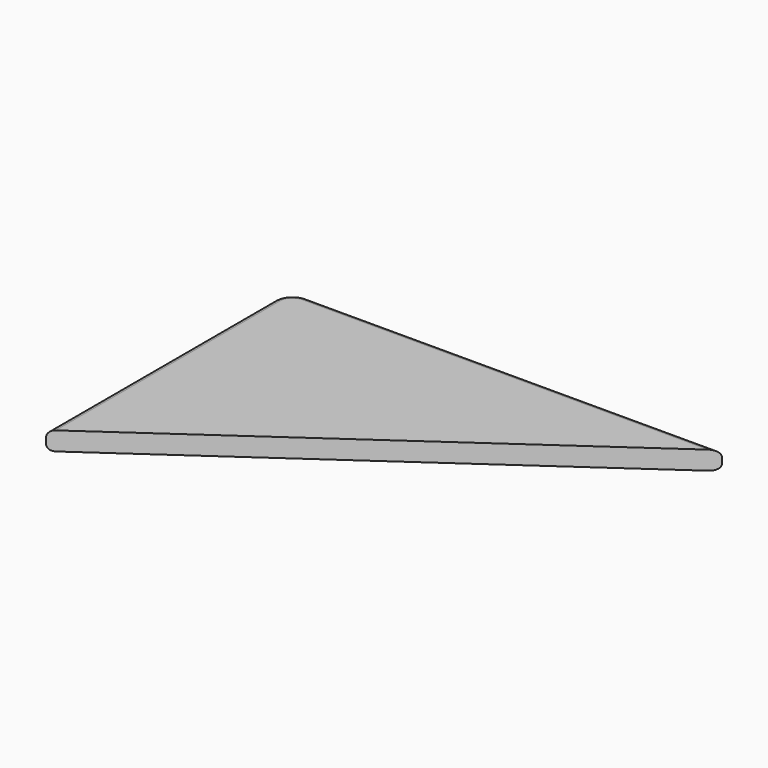
from build123d import *

# Parameters (mm, degrees)
PAD001_DEPTH = 0.3
FILLET004_R  = 0.1
FILLET005_R  = 0.1


with BuildPart() as part:
    # Sketch002 → Pad001 (new body)
    with BuildSketch(Plane.XY):
        with BuildLine():
            Line((0, 12.098547), (7, 17))
            Line((7, 17), (0.3, 17))
            ThreePointArc((0.3, 17), (0.087868, 16.912132), (0, 16.7))
            Line((0, 12.098547), (0, 16.7))
        make_face()
    extrude(amount=PAD001_DEPTH)

    # Fillet004
    fillet004_edges = [part.edges().sort_by_distance(p)[0] for p in [
        (0, 14.399274, 0.3),
        (0.087868, 16.912132, 0.3),
        (3.65, 17, 0.3),
    ]]
    fillet(fillet004_edges, radius=FILLET004_R)

    # Fillet005
    fillet005_edges = [part.edges().sort_by_distance(p)[0] for p in [
        (0, 14.399274, 0),
        (0.087868, 16.912132, 0),
        (3.65, 17, 0),
    ]]
    fillet(fillet005_edges, radius=FILLET005_R)


solid = part.part
